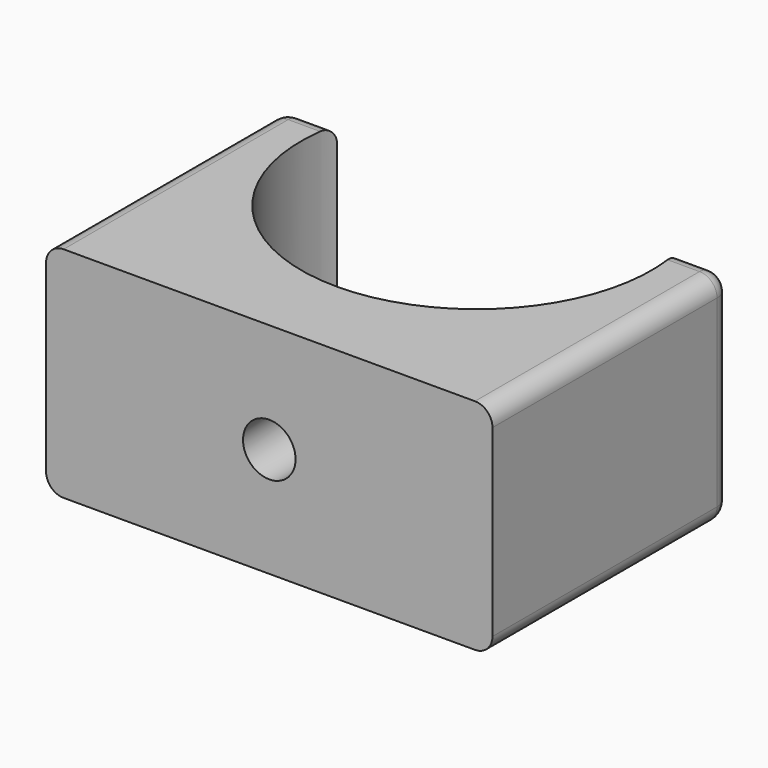
from build123d import *

# Parameters (mm, degrees)
PAD_DEPTH       = 12.5
SKETCH001_R     = 1.5
POCKET_DEPTH    = 17.030262
SKETCH002_R     = 3
POCKET001_DEPTH = 14
FILLET_R        = 1


with BuildPart() as part:
    # Sketch → Pad (new body)
    with BuildSketch(Plane.XY):
        with BuildLine():
            Line((-12.745991, -3.650621), (12.745991, -3.650621))
            Line((12.745991, 13.378641), (12.745991, -3.650621))
            Line((9.745991, 13.378641), (12.745991, 13.378641))
            ThreePointArc((-9.745991, 13.378641), (0, 1.139072), (9.745991, 13.378641))
            Line((-12.745991, 13.378641), (-9.745991, 13.378641))
            Line((-12.745991, -3.650621), (-12.745991, 13.378641))
        make_face()
    extrude(amount=PAD_DEPTH)

    # Sketch001 (on Face1 of Pad) → Pocket (cut, through all)
    with BuildSketch(Plane.XZ.offset(3.650621)):
        with Locations((0, 6.25)):
            Circle(SKETCH001_R)
    extrude(amount=-POCKET_DEPTH, mode=Mode.SUBTRACT)

    # Sketch002 (on Face8 of Pocket) → Pocket001 (cut)
    with BuildSketch(Plane(origin=(0, 13.378641, 0), x_dir=(-1, 0, 0), z_dir=(0, 1, 0))):
        with Locations((0, 6.25)):
            Circle(SKETCH002_R)
    extrude(amount=-POCKET001_DEPTH, mode=Mode.SUBTRACT)

    # Fillet
    fillet_edges = [part.edges().sort_by_distance(p)[0] for p in [
        (12.745991, 4.86401, 12.5),
        (12.745991, 13.378641, 6.25),
        (12.745991, 4.86401, 0),
        (-12.745991, 4.86401, 12.5),
        (-12.745991, 13.378641, 6.25),
        (-12.745991, 4.86401, 0),
        (-11.245991, 13.378641, 12.5),
        (-11.245991, 13.378641, 0),
        (11.245991, 13.378641, 0),
        (11.245991, 13.378641, 12.5),
    ]]
    fillet(fillet_edges, radius=FILLET_R)


solid = part.part
